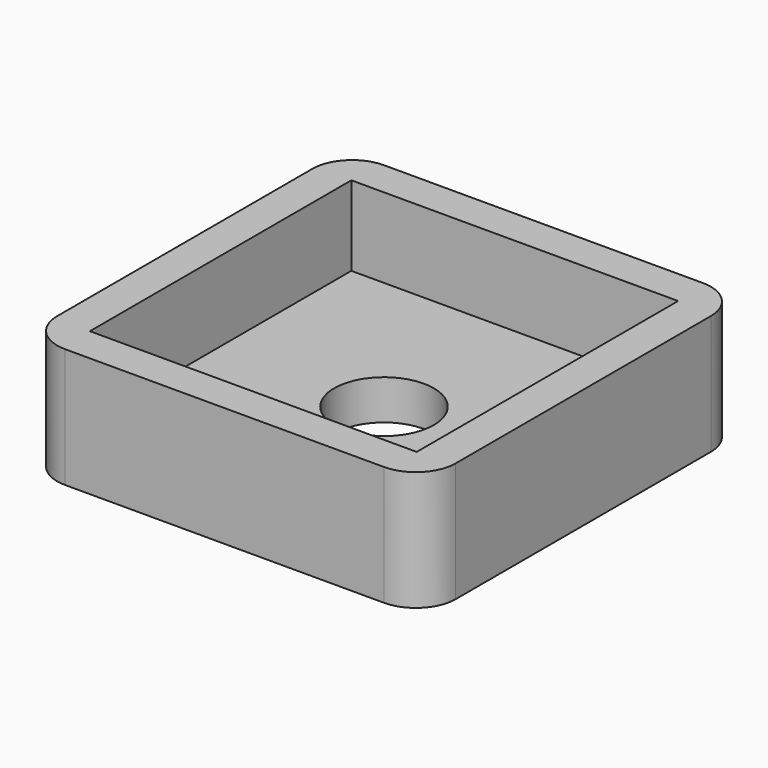
from build123d import *

# Parameters (mm, degrees)
F1_DEPTH = 2
F2_W     = 16.4
F2_H     = 16.4
F3_DEPTH = 4
F4_R     = 2.5
F5_DEPTH = 25


with BuildPart() as f1:
    # F0 (on Top) → F1 (new body)
    with BuildSketch(Plane.XY):
        with BuildLine():
            Line((-15.782069, 12.225087), (-31.782069, 12.225087))
            ThreePointArc((-31.782069, 12.225087), (-33.196283, 11.6393), (-33.782069, 10.225087))
            Line((-33.782069, 10.225087), (-33.782069, -5.774913))
            ThreePointArc((-33.782069, -5.774913), (-33.196283, -7.189127), (-31.782069, -7.774913))
            Line((-31.782069, -7.774913), (-15.782069, -7.774913))
            ThreePointArc((-15.782069, -7.774913), (-14.367856, -7.189127), (-13.782069, -5.774913))
            Line((-13.782069, -5.774913), (-13.782069, 10.225087))
            ThreePointArc((-13.782069, 10.225087), (-14.367856, 11.6393), (-15.782069, 12.225087))
        make_face()
    extrude(amount=F1_DEPTH)

    # F2 (on face) → F3 (join)
    with BuildSketch(Plane.XY.offset(2)):
        with BuildLine():
            ThreePointArc((-13.782069, 10.225087), (-14.367856, 11.6393), (-15.782069, 12.225087))
            Line((-15.782069, 12.225087), (-31.782069, 12.225087))
            ThreePointArc((-31.782069, 12.225087), (-33.196283, 11.6393), (-33.782069, 10.225087))
            Line((-33.782069, 10.225087), (-33.782069, -5.774913))
            ThreePointArc((-33.782069, -5.774913), (-33.196283, -7.189127), (-31.782069, -7.774913))
            Line((-31.782069, -7.774913), (-15.782069, -7.774913))
            ThreePointArc((-15.782069, -7.774913), (-14.367856, -7.189127), (-13.782069, -5.774913))
            Line((-13.782069, -5.774913), (-13.782069, 10.225087))
        make_face()
        with Locations((-23.782069, 2.225087)):
            Rectangle(F2_W, F2_H, mode=Mode.SUBTRACT)
    extrude(amount=F3_DEPTH)

    # F4 (on face) → F5 (cut)
    with BuildSketch(Plane.XY.offset(2)):
        with Locations((-23.782069, 2.225087)):
            Circle(F4_R)
    extrude(amount=-F5_DEPTH, mode=Mode.SUBTRACT)


solid = f1.part
